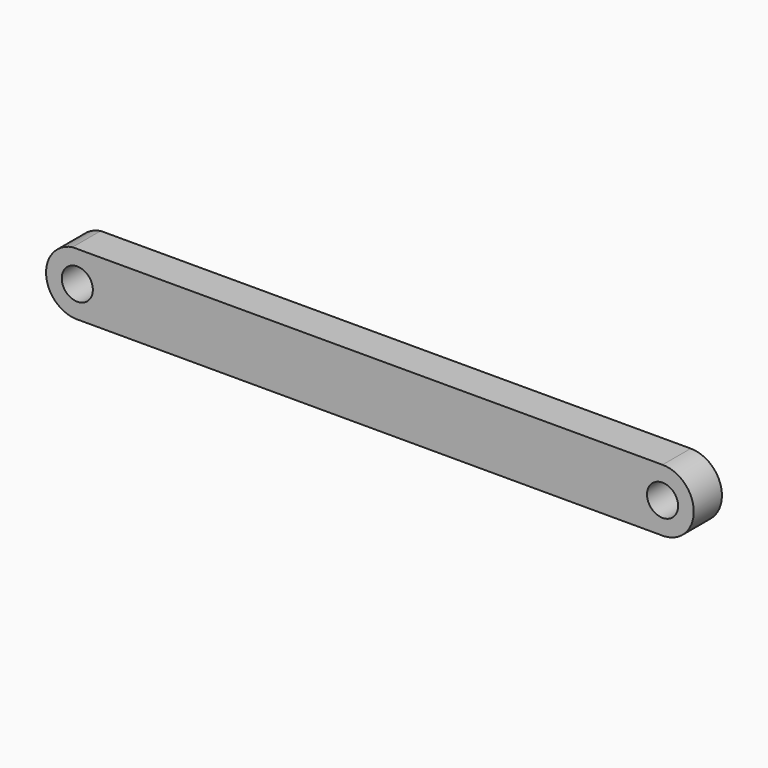
from build123d import *

# Parameters (mm, degrees)
F0_R     = 2.5019
F1_DEPTH = 5.6642


with BuildPart() as f1:
    # F0 (on Front) → F1 (new body)
    with BuildSketch(Plane.XZ):
        with BuildLine():
            ThreePointArc((-38.534511, 23.127607), (-42.762152, 17.580046), (-37.38057, 13.143046))
            Line((-37.38057, 13.143046), (56.118414, 13.143046))
            Line((56.118414, 13.143046), (56.657582, 13.143046))
            ThreePointArc((56.657582, 13.143046), (61.407785, 18.293641), (56.385275, 23.179073))
            Line((56.385275, 23.179073), (-38.534511, 23.127607))
        make_face()
        with Locations((-37.766207, 18.157439)):
            Circle(F0_R, mode=Mode.SUBTRACT)
        with Locations((56.387998, 18.157439)):
            Circle(F0_R, mode=Mode.SUBTRACT)
        with BuildLine():
            Line((56.657582, 13.143046), (56.118414, 13.143046))
            ThreePointArc((56.118414, 13.143046), (56.387998, 13.135805), (56.657582, 13.143046))
        make_face()
    extrude(amount=F1_DEPTH)


solid = f1.part
